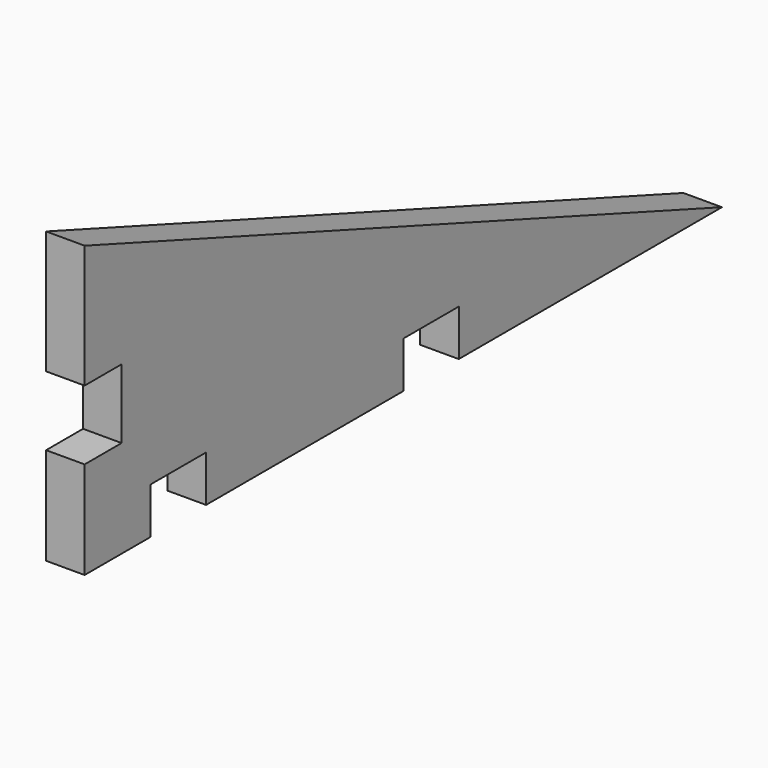
from build123d import *

# Parameters (mm, degrees)
F1_DEPTH = 12.7


with BuildPart() as f1:
    # F0 (on Right) → F1 (new body)
    with BuildSketch(Plane.YZ):
        Polygon((0, 32.104064), (0, 0), (27.176283, 0), (27.176283, 15.24), (50.036283, 15.24), (50.036283, 0), (131.275059, 0), (131.275059, 15.24), (154.135059, 15.24), (154.135059, 0), (262.550118, 0), (0, 95.560428), (0, 54.964064), (15.24, 54.964064), (15.24, 32.104064), align=None)
    extrude(amount=F1_DEPTH)


solid = f1.part
